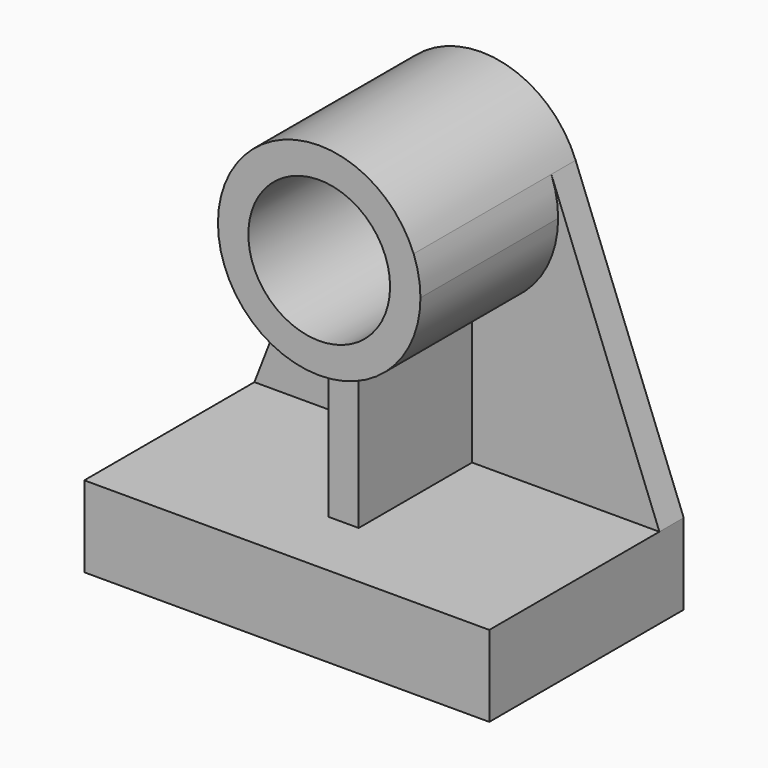
from build123d import *

# Parameters (mm, degrees)
F0_W     = 254
F0_H     = 50.8
F1_DEPTH = 152.4
F2_DEPTH = 19.05
F0_R     = 44.45
F3_DEPTH = 127
F5_DEPTH = 9.525


with BuildPart() as f1:
    # F0 (on Front) → F1 (new body)
    with BuildSketch(Plane.XZ):
        with Locations((0, -129.828695)):
            Rectangle(F0_W, F0_H)
    extrude(amount=F1_DEPTH)

    # F0 (on Front) → F2 (join)
    with BuildSketch(Plane.XZ):
        with Locations((0, -129.828695)):
            Rectangle(F0_W, F0_H)
        with BuildLine():
            Line((-59.227747, 70.869428), (-127, -104.428695))
            Line((-127, -104.428695), (127, -104.428695))
            Line((127, -104.428695), (59.227747, 70.869428))
            ThreePointArc((59.227747, 70.869428), (62.4228, 59.617937), (63.5, 47.971305))
            ThreePointArc((63.5, 47.971305), (-11.646632, -14.451495), (-59.227747, 70.869428))
        make_face()
    extrude(amount=F2_DEPTH)

    # F0 (on Front) → F3 (join)
    with BuildSketch(Plane.XZ):
        with BuildLine():
            ThreePointArc((59.227747, 70.869428), (0, 111.471305), (-59.227747, 70.869428))
            ThreePointArc((-59.227747, 70.869428), (-11.646632, -14.451495), (63.5, 47.971305))
            ThreePointArc((63.5, 47.971305), (62.4228, 59.617937), (59.227747, 70.869428))
        make_face()
        with Locations((0, 47.971305)):
            Circle(F0_R, mode=Mode.SUBTRACT)
    extrude(amount=F3_DEPTH)

    # F4 (on Right) → F5 (join, symmetric)
    with BuildSketch(Plane.YZ):
        Polygon((-13.847807, -10.107701), (-107.95, -11.26233), (-107.95, -113.015743), (-13.847807, -113.015743), align=None)
    extrude(amount=F5_DEPTH, both=True)


solid = f1.part
